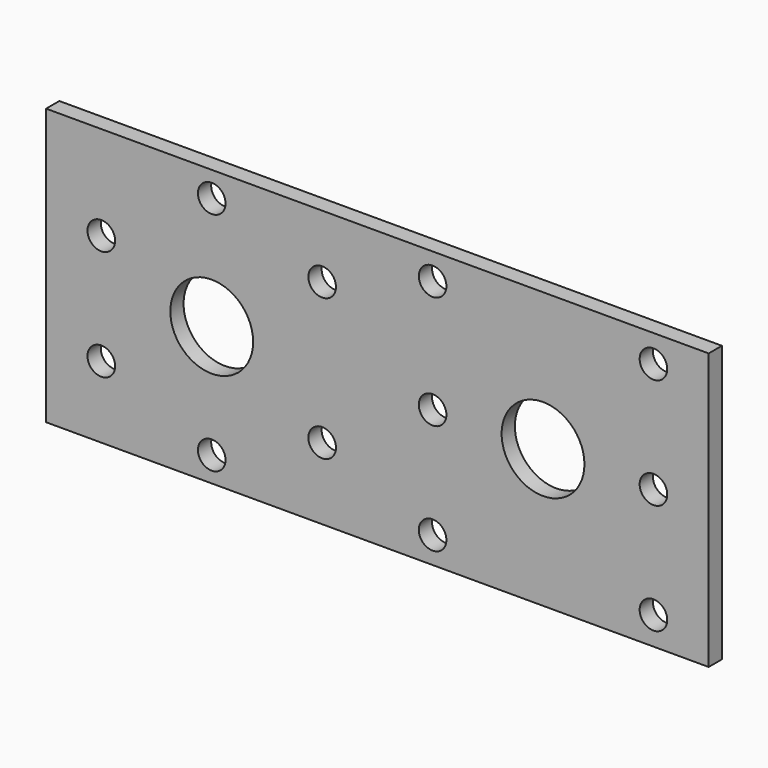
from build123d import *

# Parameters (mm, degrees)
F0_W     = 120
F0_H     = 50
F0_R     = 2.5
F0_R_2   = 7.5
F1_DEPTH = 3


with BuildPart() as f1:
    # F0 (on Front) → F1 (new body)
    with BuildSketch(Plane.XZ):
        Rectangle(F0_W, F0_H)
        with Locations((-30, -20.471021)):
            Circle(F0_R, mode=Mode.SUBTRACT)
        with Locations((-50, -12)):
            Circle(F0_R, mode=Mode.SUBTRACT)
        with Locations((-10, -12)):
            Circle(F0_R, mode=Mode.SUBTRACT)
        with Locations((10, -20.205567)):
            Circle(F0_R, mode=Mode.SUBTRACT)
        with Locations((50, -19.943193)):
            Circle(F0_R, mode=Mode.SUBTRACT)
        with Locations((10, -0.249446)):
            Circle(F0_R, mode=Mode.SUBTRACT)
        with Locations((-50, 8)):
            Circle(F0_R, mode=Mode.SUBTRACT)
        with Locations((-30, 0)):
            Circle(F0_R_2, mode=Mode.SUBTRACT)
        with Locations((-10, 13.638931)):
            Circle(F0_R, mode=Mode.SUBTRACT)
        with Locations((-30, 20.443137)):
            Circle(F0_R, mode=Mode.SUBTRACT)
        with Locations((30, 0)):
            Circle(F0_R_2, mode=Mode.SUBTRACT)
        with Locations((50, 0.056807)):
            Circle(F0_R, mode=Mode.SUBTRACT)
        with Locations((10, 20.250674)):
            Circle(F0_R, mode=Mode.SUBTRACT)
        with Locations((50, 20.05674)):
            Circle(F0_R, mode=Mode.SUBTRACT)
    extrude(amount=F1_DEPTH)


solid = f1.part
